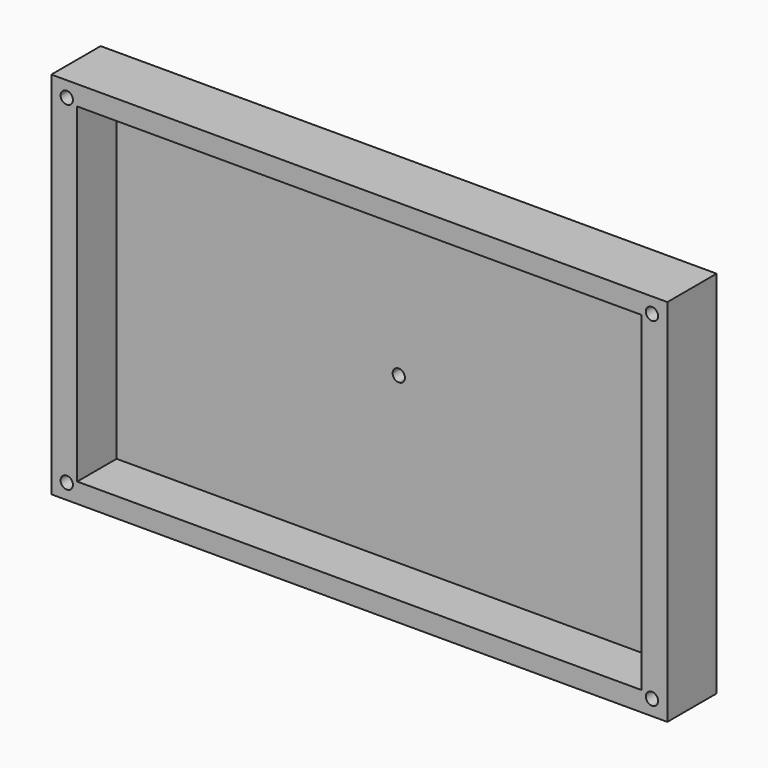
from build123d import *

# Parameters (mm, degrees)
F0_R     = 2.54
F1_DEPTH = 25.4
F2_W     = 232.68409
F2_H     = 136.17222
F3_DEPTH = 20.32


with BuildPart() as f1:
    # F0 (on Front) → F1 (new body)
    with BuildSketch(Plane.XZ):
        with BuildLine():
            Line((0, -76.2), (127, -76.2))
            Line((127, -76.2), (127, 0))
            Line((127, 0), (2.54, 0))
            ThreePointArc((2.54, 0), (1.796051, -1.796051), (0, -2.54))
            Line((0, -2.54), (0, -76.2))
        make_face()
        with Locations((120.65, -69.85)):
            Circle(F0_R, mode=Mode.SUBTRACT)
        with BuildLine():
            Line((-127, -76.2), (0, -76.2))
            Line((0, -76.2), (0, -2.54))
            ThreePointArc((0, -2.54), (-1.796051, -1.796051), (-2.54, 0))
            Line((-2.54, 0), (-127, 0))
            Line((-127, 0), (-127, -76.2))
        make_face()
        with Locations((-120.65, -69.85)):
            Circle(F0_R, mode=Mode.SUBTRACT)
        with BuildLine():
            Line((2.54, 0), (127, 0))
            Line((127, 0), (127, 76.2))
            Line((127, 76.2), (0, 76.2))
            Line((0, 76.2), (0, 2.54))
            ThreePointArc((0, 2.54), (1.796051, 1.796051), (2.54, 0))
        make_face()
        with Locations((120.65, 69.85)):
            Circle(F0_R, mode=Mode.SUBTRACT)
        with BuildLine():
            Line((-127, 69.85), (-127, 0))
            Line((-127, 0), (-2.54, 0))
            ThreePointArc((-2.54, 0), (-1.796051, 1.796051), (0, 2.54))
            Line((0, 2.54), (0, 76.2))
            Line((0, 76.2), (-120.65, 76.2))
            Line((-120.65, 76.2), (-120.65, 72.39))
            ThreePointArc((-120.65, 72.39), (-118.853949, 71.646051), (-118.11, 69.85))
            ThreePointArc((-118.11, 69.85), (-120.65, 67.31), (-123.19, 69.85))
            Line((-123.19, 69.85), (-127, 69.85))
        make_face()
        with BuildLine():
            Line((-127, 76.2), (-127, 69.85))
            Line((-127, 69.85), (-123.19, 69.85))
            ThreePointArc((-123.19, 69.85), (-122.446051, 71.646051), (-120.65, 72.39))
            Line((-120.65, 72.39), (-120.65, 76.2))
            Line((-120.65, 76.2), (-127, 76.2))
        make_face()
    extrude(amount=F1_DEPTH)

    # F2 (on face) → F3 (cut)
    with BuildSketch(Plane.XZ.offset(25.4)):
        Rectangle(F2_W, F2_H)
    extrude(amount=-F3_DEPTH, mode=Mode.SUBTRACT)


solid = f1.part
